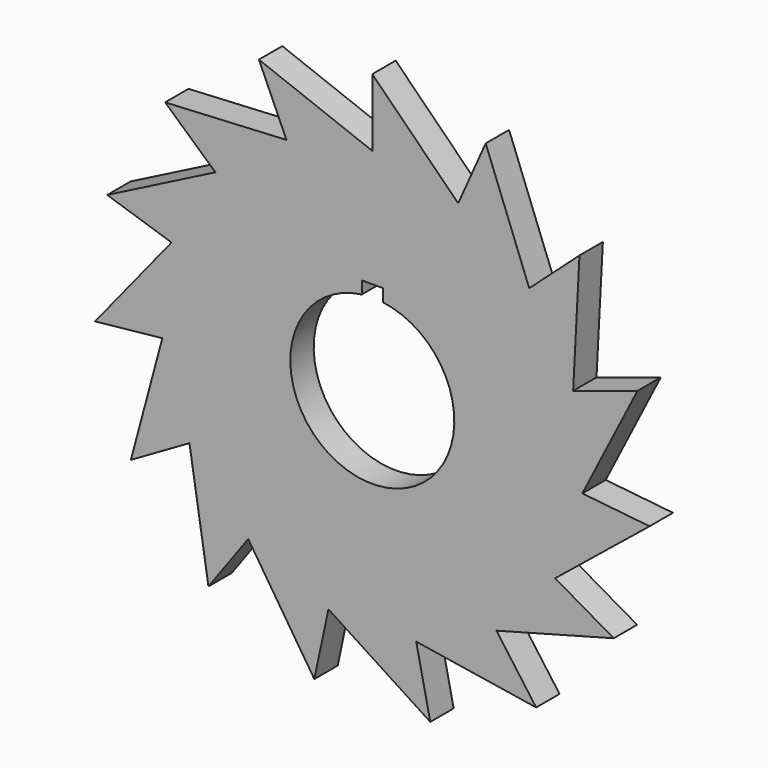
from build123d import *

# Parameters (mm, degrees)
F1_DEPTH = 10


with BuildPart() as f1:
    # F0 (on Front) → F1 (new body)
    with BuildSketch(Plane.XZ):
        with BuildLine():
            ThreePointArc((68.7216376731, 22.2237625256), (71.3443445379, 11.2491603119), (72.2257509845, 0))
            ThreePointArc((72.2257509845, 0), (72.1267681029, -3.7800037431), (71.8300907635, -7.5496467588))
            Line((71.8300907635, -7.5496467588), (71.8682359795, -7.5536559825))
            Line((71.8682359795, -7.5536559825), (90.7393569571, 29.4830042989))
            Line((90.7393569571, 29.4830042989), (68.7272492051, 22.3308369347))
            Line((68.7272492051, 22.3308369347), (68.7216376731, 22.2237625256))
        make_face()
        with BuildLine():
            ThreePointArc((68.6907711181, 22.3189844857), (68.706220892, 22.271378853), (68.7216376731, 22.2237625256))
            Line((68.7216376731, 22.2237625256), (68.7272492051, 22.3308369347))
            Line((68.7272492051, 22.3308369347), (68.6907711181, 22.3189844857))
        make_face()
        with BuildLine():
            Line((71.8682359795, -7.5536559825), (71.8300907635, -7.5496467588))
            ThreePointArc((71.8300907635, -7.5496467588), (71.824841879, -7.5994206574), (71.8195585042, -7.6491909069))
            Line((71.8195585042, -7.6491909069), (71.8682359795, -7.5536559825))
        make_face()
        with BuildLine():
            ThreePointArc((53.7411213719, 48.2540255208), (62.5743450868, 36.0695223455), (68.6907711181, 22.3189844857))
            Line((68.6907711181, 22.3189844857), (68.7272492051, 22.3308369347))
            Line((68.7272492051, 22.3308369347), (70.9027091813, 63.8410860985))
            Line((70.9027091813, 63.8410860985), (53.7026966757, 48.3541252765))
            Line((53.7026966757, 48.3541252765), (53.7411213719, 48.2540255208))
        make_face()
        with BuildLine():
            Line((71.8682359795, -7.5536559825), (71.8195585042, -7.6491909069))
            ThreePointArc((71.8195585042, -7.6491909069), (68.6752883589, -22.3665794008), (62.54933516, -36.1128754922))
            Line((62.54933516, -36.1128754922), (62.5825518506, -36.1320531575))
            Line((62.5825518506, -36.1320531575), (94.8863455739, -9.9729567887))
            Line((94.8863455739, -9.9729567887), (71.8682359795, -7.5536559825))
        make_face()
        with BuildLine():
            ThreePointArc((53.6741931103, 48.328460551), (53.7076701363, 48.2912546306), (53.7411213719, 48.2540255208))
            Line((53.7411213719, 48.2540255208), (53.7026966757, 48.3541252765))
            Line((53.7026966757, 48.3541252765), (53.6741931103, 48.328460551))
        make_face()
        with BuildLine():
            Line((62.5825518506, -36.1320531575), (62.54933516, -36.1128754922))
            ThreePointArc((62.54933516, -36.1128754922), (62.5242951969, -36.1562112976), (62.4992252097, -36.1995297408))
            Line((62.4992252097, -36.1995297408), (62.5825518506, -36.1320531575))
        make_face()
        with BuildLine():
            ThreePointArc((29.4682769627, 65.9407291294), (42.4937122829, 58.4024273613), (53.6741931103, 48.328460551))
            Line((53.6741931103, 48.328460551), (53.7026966757, 48.3541252765))
            Line((53.7026966757, 48.3541252765), (38.8063388571, 87.1604641336))
            Line((38.8063388571, 87.1604641336), (29.3924600174, 66.0165460747))
            Line((29.3924600174, 66.0165460747), (29.4682769627, 65.9407291294))
        make_face()
        with BuildLine():
            Line((62.5825518506, -36.1320531575), (62.4992252097, -36.1995297408))
            ThreePointArc((62.4992252097, -36.1995297408), (53.64069031, -48.365643264), (42.4532312644, -58.4318599779))
            Line((42.4532312644, -58.4318599779), (42.4757759621, -58.4628900922))
            Line((42.4757759621, -58.4628900922), (82.6266230256, -47.7045030461))
            Line((82.6266230256, -47.7045030461), (62.5825518506, -36.1320531575))
        make_face()
        with BuildLine():
            ThreePointArc((29.3768594991, 65.9815067367), (29.4225752952, 65.9611337703), (29.4682769627, 65.9407291294))
            Line((29.4682769627, 65.9407291294), (29.3924600174, 66.0165460747))
            Line((29.3924600174, 66.0165460747), (29.3768594991, 65.9815067367))
        make_face()
        with BuildLine():
            Line((42.4757759621, -58.4628900922), (42.4532312644, -58.4318599779))
            ThreePointArc((42.4532312644, -58.4318599779), (42.4127298599, -58.4612645356), (42.3722080888, -58.4906410201))
            Line((42.3722080888, -58.4906410201), (42.4757759621, -58.4628900922))
        make_face()
        with BuildLine():
            ThreePointArc((0.1000997557, 72.2256816189), (15.065530582, 70.637022117), (29.3768594991, 65.9815067367))
            Line((29.3768594991, 65.9815067367), (29.3924600174, 66.0165460747))
            Line((29.3924600174, 66.0165460747), (0, 95.4090060921))
            Line((0, 95.4090060921), (0, 72.264106315))
            Line((0, 72.264106315), (0.1000997557, 72.2256816189))
        make_face()
        with BuildLine():
            Line((42.4757759621, -58.4628900922), (42.3722080888, -58.4906410201))
            ThreePointArc((42.3722080888, -58.4906410201), (29.3311295961, -66.0018480187), (15.0165780078, -70.6474450367))
            Line((15.0165780078, -70.6474450367), (15.0245525294, -70.6849622112))
            Line((15.0245525294, -70.6849622112), (56.0800067168, -77.1875073449))
            Line((56.0800067168, -77.1875073449), (42.4757759621, -58.4628900922))
        make_face()
        with BuildLine():
            ThreePointArc((0, 72.2257509845), (0.0500498899, 72.2257336431), (0.1000997557, 72.2256816189))
            Line((0.1000997557, 72.2256816189), (0, 72.264106315))
            Line((0, 72.264106315), (0, 72.2257509845))
        make_face()
        with BuildLine():
            Line((15.0245525294, -70.6849622112), (15.0165780078, -70.6474450367))
            ThreePointArc((15.0165780078, -70.6474450367), (14.9676182226, -70.6578340314), (14.91865125, -70.6681890963))
            Line((14.91865125, -70.6681890963), (15.0245525294, -70.6849622112))
        make_face()
        with BuildLine():
            ThreePointArc((-29.2853856084, 66.0221576067), (-14.9676182226, 70.6578340314), (0, 72.2257509845))
            Line((0, 72.2257509845), (0, 72.264106315))
            Line((0, 72.264106315), (-38.8063388571, 87.1604641336))
            Line((-38.8063388571, 87.1604641336), (-29.3924600174, 66.0165460747))
            Line((-29.3924600174, 66.0165460747), (-29.2853856084, 66.0221576067))
        make_face()
        with BuildLine():
            Line((15.0245525294, -70.6849622112), (14.91865125, -70.6681890963))
            ThreePointArc((14.91865125, -70.6681890963), (-0.0500498899, -72.2257336431), (-15.0165780078, -70.6474450367))
            Line((-15.0165780078, -70.6474450367), (-15.0245525294, -70.6849622112))
            Line((-15.0245525294, -70.6849622112), (19.8366477759, -93.3240903974))
            Line((19.8366477759, -93.3240903974), (15.0245525294, -70.6849622112))
        make_face()
        with BuildLine():
            ThreePointArc((-29.3768594991, 65.9815067367), (-29.3311295961, 66.0018480187), (-29.2853856084, 66.0221576067))
            Line((-29.2853856084, 66.0221576067), (-29.3924600174, 66.0165460747))
            Line((-29.3924600174, 66.0165460747), (-29.3768594991, 65.9815067367))
        make_face()
        with BuildLine():
            Line((-15.0245525294, -70.6849622112), (-15.0165780078, -70.6474450367))
            ThreePointArc((-15.0165780078, -70.6474450367), (-15.065530582, -70.637022117), (-15.1144759217, -70.6265652774))
            Line((-15.1144759217, -70.6265652774), (-15.0245525294, -70.6849622112))
        make_face()
        with BuildLine():
            ThreePointArc((-53.6071617514, 48.4028027518), (-42.4127298599, 58.4612645356), (-29.3768594991, 65.9815067367))
            Line((-29.3768594991, 65.9815067367), (-29.3924600174, 66.0165460747))
            Line((-29.3924600174, 66.0165460747), (-70.9027091813, 63.8410860985))
            Line((-70.9027091813, 63.8410860985), (-53.7026966757, 48.3541252765))
            Line((-53.7026966757, 48.3541252765), (-53.6071617514, 48.4028027518))
        make_face()
        with BuildLine():
            Line((-15.0245525294, -70.6849622112), (-15.1144759217, -70.6265652774))
            ThreePointArc((-15.1144759217, -70.6265652774), (-29.4225752952, -65.9611337703), (-42.4532312644, -58.4318599779))
            Line((-42.4532312644, -58.4318599779), (-42.4757759621, -58.4628900922))
            Line((-42.4757759621, -58.4628900922), (-19.8366477759, -93.3240903974))
            Line((-19.8366477759, -93.3240903974), (-15.0245525294, -70.6849622112))
        make_face()
        with BuildLine():
            ThreePointArc((-53.6741931103, 48.328460551), (-53.64069031, 48.365643264), (-53.6071617514, 48.4028027518))
            Line((-53.6071617514, 48.4028027518), (-53.7026966757, 48.3541252765))
            Line((-53.7026966757, 48.3541252765), (-53.6741931103, 48.328460551))
        make_face()
        with BuildLine():
            Line((-42.4757759621, -58.4628900922), (-42.4532312644, -58.4318599779))
            ThreePointArc((-42.4532312644, -58.4318599779), (-42.4937122829, -58.4024273613), (-42.5341728958, -58.3729666998))
            Line((-42.5341728958, -58.3729666998), (-42.4757759621, -58.4628900922))
        make_face()
        with BuildLine():
            ThreePointArc((-68.6597726218, 22.4141635755), (-62.5242951969, 36.1562112976), (-53.6741931103, 48.328460551))
            Line((-53.6741931103, 48.328460551), (-53.7026966757, 48.3541252765))
            Line((-53.7026966757, 48.3541252765), (-90.7393569571, 29.4830042989))
            Line((-90.7393569571, 29.4830042989), (-68.7272492051, 22.3308369347))
            Line((-68.7272492051, 22.3308369347), (-68.6597726218, 22.4141635755))
        make_face()
        with BuildLine():
            Line((-42.4757759621, -58.4628900922), (-42.5341728958, -58.3729666998))
            ThreePointArc((-42.5341728958, -58.3729666998), (-53.7076701363, -48.2912546306), (-62.54933516, -36.1128754922))
            Line((-62.54933516, -36.1128754922), (-62.5825518506, -36.1320531575))
            Line((-62.5825518506, -36.1320531575), (-56.0800067168, -77.1875073449))
            Line((-56.0800067168, -77.1875073449), (-42.4757759621, -58.4628900922))
        make_face()
        with BuildLine():
            ThreePointArc((-68.6907711181, 22.3189844857), (-68.6752883589, 22.3665794008), (-68.6597726218, 22.4141635755))
            Line((-68.6597726218, 22.4141635755), (-68.7272492051, 22.3308369347))
            Line((-68.7272492051, 22.3308369347), (-68.6907711181, 22.3189844857))
        make_face()
        with BuildLine():
            Line((-62.5825518506, -36.1320531575), (-62.54933516, -36.1128754922))
            ThreePointArc((-62.54933516, -36.1128754922), (-62.5743450868, -36.0695223455), (-62.5993249654, -36.0261518781))
            Line((-62.5993249654, -36.0261518781), (-62.5825518506, -36.1320531575))
        make_face()
        with BuildLine():
            ThreePointArc((-71.8404850515, -7.4500881093), (-71.824841879, 7.5994206574), (-68.6907711181, 22.3189844857))
            Line((-68.6907711181, 22.3189844857), (-68.7272492051, 22.3308369347))
            Line((-68.7272492051, 22.3308369347), (-94.8863455739, -9.9729567887))
            Line((-94.8863455739, -9.9729567887), (-71.8682359795, -7.5536559825))
            Line((-71.8682359795, -7.5536559825), (-71.8404850515, -7.4500881093))
        make_face()
        with BuildLine():
            Line((-62.5825518506, -36.1320531575), (-62.5993249654, -36.0261518781))
            ThreePointArc((-62.5993249654, -36.0261518781), (-68.706220892, -22.271378853), (-71.8300907635, -7.5496467588))
            Line((-71.8300907635, -7.5496467588), (-71.8682359795, -7.5536559825))
            Line((-71.8682359795, -7.5536559825), (-82.6266230256, -47.7045030461))
            Line((-82.6266230256, -47.7045030461), (-62.5825518506, -36.1320531575))
        make_face()
        with BuildLine():
            ThreePointArc((-71.8300907635, -7.5496467588), (-71.8353051551, -7.4998692348), (-71.8404850515, -7.4500881093))
            Line((-71.8404850515, -7.4500881093), (-71.8682359795, -7.5536559825))
            Line((-71.8682359795, -7.5536559825), (-71.8300907635, -7.5496467588))
        make_face()
        with BuildLine():
            ThreePointArc((71.8300907635, -7.5496467588), (72.1267681029, -3.7800037431), (72.2257509845, 0))
            ThreePointArc((72.2257509845, 0), (71.3443445379, 11.2491603119), (68.7216376731, 22.2237625256))
            ThreePointArc((68.7216376731, 22.2237625256), (68.706220892, 22.271378853), (68.6907711181, 22.3189844857))
            ThreePointArc((68.6907711181, 22.3189844857), (62.5743450868, 36.0695223455), (53.7411213719, 48.2540255208))
            ThreePointArc((53.7411213719, 48.2540255208), (53.7076701363, 48.2912546306), (53.6741931103, 48.328460551))
            ThreePointArc((53.6741931103, 48.328460551), (42.4937122829, 58.4024273613), (29.4682769627, 65.9407291294))
            ThreePointArc((29.4682769627, 65.9407291294), (29.4225752952, 65.9611337703), (29.3768594991, 65.9815067367))
            ThreePointArc((29.3768594991, 65.9815067367), (15.065530582, 70.637022117), (0.1000997557, 72.2256816189))
            ThreePointArc((0.1000997557, 72.2256816189), (0.0500498899, 72.2257336431), (0, 72.2257509845))
            ThreePointArc((0, 72.2257509845), (-14.9676182226, 70.6578340314), (-29.2853856084, 66.0221576067))
            ThreePointArc((-29.2853856084, 66.0221576067), (-29.3311295961, 66.0018480187), (-29.3768594991, 65.9815067367))
            ThreePointArc((-29.3768594991, 65.9815067367), (-42.4127298599, 58.4612645356), (-53.6071617514, 48.4028027518))
            ThreePointArc((-53.6071617514, 48.4028027518), (-53.64069031, 48.365643264), (-53.6741931103, 48.328460551))
            ThreePointArc((-53.6741931103, 48.328460551), (-62.5242951969, 36.1562112976), (-68.6597726218, 22.4141635755))
            ThreePointArc((-68.6597726218, 22.4141635755), (-68.6752883589, 22.3665794008), (-68.6907711181, 22.3189844857))
            ThreePointArc((-68.6907711181, 22.3189844857), (-71.824841879, 7.5994206574), (-71.8404850515, -7.4500881093))
            ThreePointArc((-71.8404850515, -7.4500881093), (-71.8353051551, -7.4998692348), (-71.8300907635, -7.5496467588))
            ThreePointArc((-71.8300907635, -7.5496467588), (-68.706220892, -22.271378853), (-62.5993249654, -36.0261518781))
            ThreePointArc((-62.5993249654, -36.0261518781), (-62.5743450868, -36.0695223455), (-62.54933516, -36.1128754922))
            ThreePointArc((-62.54933516, -36.1128754922), (-53.7076701363, -48.2912546306), (-42.5341728958, -58.3729666998))
            ThreePointArc((-42.5341728958, -58.3729666998), (-42.4937122829, -58.4024273613), (-42.4532312644, -58.4318599779))
            ThreePointArc((-42.4532312644, -58.4318599779), (-29.4225752952, -65.9611337703), (-15.1144759217, -70.6265652774))
            ThreePointArc((-15.1144759217, -70.6265652774), (-15.065530582, -70.637022117), (-15.0165780078, -70.6474450367))
            ThreePointArc((-15.0165780078, -70.6474450367), (-0.0500498899, -72.2257336431), (14.91865125, -70.6681890963))
            ThreePointArc((14.91865125, -70.6681890963), (14.9676182226, -70.6578340314), (15.0165780078, -70.6474450367))
            ThreePointArc((15.0165780078, -70.6474450367), (29.3311295961, -66.0018480187), (42.3722080888, -58.4906410201))
            ThreePointArc((42.3722080888, -58.4906410201), (42.4127298599, -58.4612645356), (42.4532312644, -58.4318599779))
            ThreePointArc((42.4532312644, -58.4318599779), (53.64069031, -48.365643264), (62.4992252097, -36.1995297408))
            ThreePointArc((62.4992252097, -36.1995297408), (62.5242951969, -36.1562112976), (62.54933516, -36.1128754922))
            ThreePointArc((62.54933516, -36.1128754922), (68.6752883589, -22.3665794008), (71.8195585042, -7.6491909069))
            ThreePointArc((71.8195585042, -7.6491909069), (71.824841879, -7.5994206574), (71.8300907635, -7.5496467588))
        make_face()
        with BuildLine():
            ThreePointArc((3.5834573209, 27.8331144006), (0, -28.0628477458), (-3.5834573209, 27.8331144006))
            Line((-3.5834573209, 27.8331144006), (-3.5834573209, 32.1017801762))
            Line((-3.5834573209, 32.1017801762), (3.5834573209, 32.1017801762))
            Line((3.5834573209, 32.1017801762), (3.5834573209, 27.8331144006))
        make_face(mode=Mode.SUBTRACT)
    extrude(amount=F1_DEPTH)


solid = f1.part
